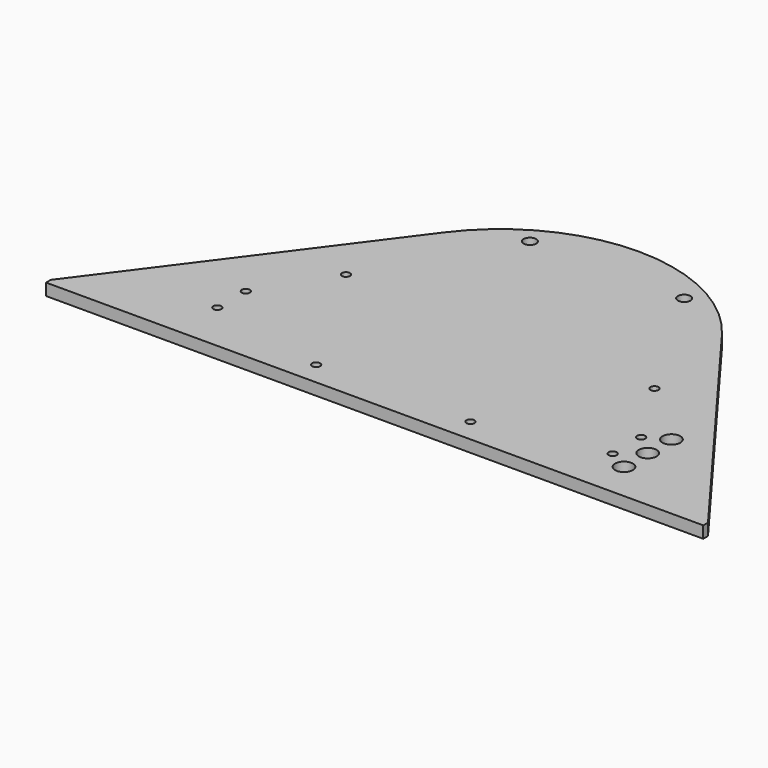
from build123d import *

# Parameters (mm, degrees)
F0_R     = 2.15265
F0_R_2   = 4.7625
F0_R_3   = 3.3655
F1_DEPTH = 6.35


with BuildPart() as f1:
    # F0 (on Top) → F1 (new body)
    with BuildSketch(Plane.XY):
        with BuildLine():
            Line((0, 3.175), (0, 0))
            Line((0, 0), (351.640242, 0))
            Line((351.640242, 0), (351.640242, 3.175))
            Line((351.640242, 3.175), (250.157268, 139.348074))
            ThreePointArc((250.157268, 139.348074), (175.820121, 176.658321), (101.482974, 139.348074))
            Line((101.482974, 139.348074), (0, 3.175))
        make_face()
        with Locations((70.043275, 26.9875)):
            Circle(F0_R, mode=Mode.SUBTRACT)
        with Locations((134.545121, 12.457924)):
            Circle(F0_R, mode=Mode.SUBTRACT)
        with Locations((70.043275, 46.0375)):
            Circle(F0_R, mode=Mode.SUBTRACT)
        with Locations((93.270121, 83.948321)):
            Circle(F0_R, mode=Mode.SUBTRACT)
        with Locations((217.095121, 12.457924)):
            Circle(F0_R, mode=Mode.SUBTRACT)
        with Locations((292.709467, 20.6375)):
            Circle(F0_R_2, mode=Mode.SUBTRACT)
        with Locations((281.596967, 26.9875)):
            Circle(F0_R, mode=Mode.SUBTRACT)
        with Locations((292.709467, 36.5125)):
            Circle(F0_R_2, mode=Mode.SUBTRACT)
        with Locations((258.370121, 83.948321)):
            Circle(F0_R, mode=Mode.SUBTRACT)
        with Locations((281.596967, 46.0375)):
            Circle(F0_R, mode=Mode.SUBTRACT)
        with Locations((292.709467, 52.3875)):
            Circle(F0_R_2, mode=Mode.SUBTRACT)
        with Locations((134.545121, 155.438718)):
            Circle(F0_R_3, mode=Mode.SUBTRACT)
        with Locations((217.095121, 155.438718)):
            Circle(F0_R_3, mode=Mode.SUBTRACT)
    extrude(amount=F1_DEPTH)


solid = f1.part
